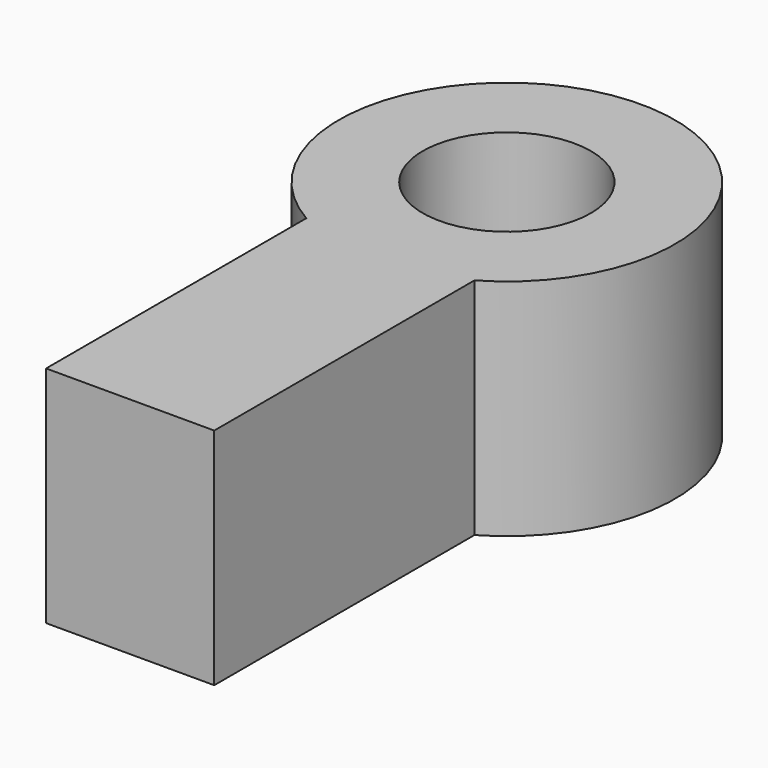
from build123d import *

# Parameters (mm, degrees)
F0_R     = 15
F0_R_2   = 7.5
F1_DEPTH = 20
F3_W     = 15
F3_H     = 20
F4_DEPTH = 30


with BuildPart() as f1:
    # F0 (on Top) → F1 (new body)
    with BuildSketch(Plane.XY):
        Circle(F0_R)
        Circle(F0_R_2, mode=Mode.SUBTRACT)
    extrude(amount=F1_DEPTH)

    # F3 (on offset) → F4 (join)
    with BuildSketch(Plane.XZ.offset(12)):
        with Locations((0, 10)):
            Rectangle(F3_W, F3_H)
    extrude(amount=F4_DEPTH)


solid = f1.part
